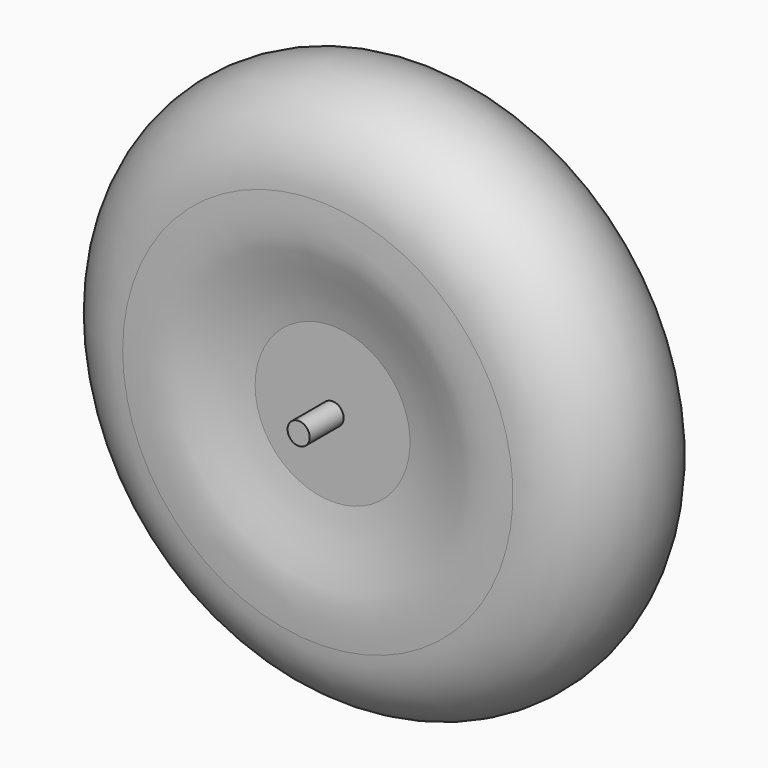
from build123d import *

# Parameters (mm, degrees)
F2_R     = 3
F3_DEPTH = 29


with BuildPart() as f1:
    # F0 (on Top) → F1 (revolve)
    with BuildSketch(Plane.XY):
        with BuildLine():
            Line((-3, 0), (-3, 17.4995933901))
            Line((-3, 17.4995933901), (-21, 17.4995933901))
            add(Edge.make_bspline(
                [(-52.9111102223, 22.5), (-49.0063974427, 22.770887551), (-41.4137818802, 23.2581714642), (-31.7984179158, 19.6037849598), (-24.6587238594, 18.0655321125), (-21, 17.4995933901)],
                knots=[0, 0, 0, 0, 0.3420035898, 0.664256839, 1, 1, 1, 1], degree=3))
            ThreePointArc((-52.9111102223, 22.5), (-75.1510886965, 0), (-52.9111102223, -22.5))
            add(Edge.make_bspline(
                [(-52.9111102223, -22.5), (-49.0063974427, -22.770887551), (-41.4137818802, -23.2581714642), (-31.7984179158, -19.6037849598), (-24.6587238594, -18.0655321125), (-21, -17.4995933901)],
                knots=[0, 0, 0, 0, 0.3420035898, 0.664256839, 1, 1, 1, 1], degree=3))
            Line((-21, -17.4995933901), (-3, -17.4995933901))
            Line((-3, -17.4995933901), (-3, 0))
        make_face()
    revolve(axis=Axis((0, 13.3384466171, 0), (0, 1, 0)))

    # F2 (on Front) → F3 (join, symmetric)
    with BuildSketch(Plane.XZ):
        Circle(F2_R)
    extrude(amount=F3_DEPTH, both=True)


solid = f1.part
